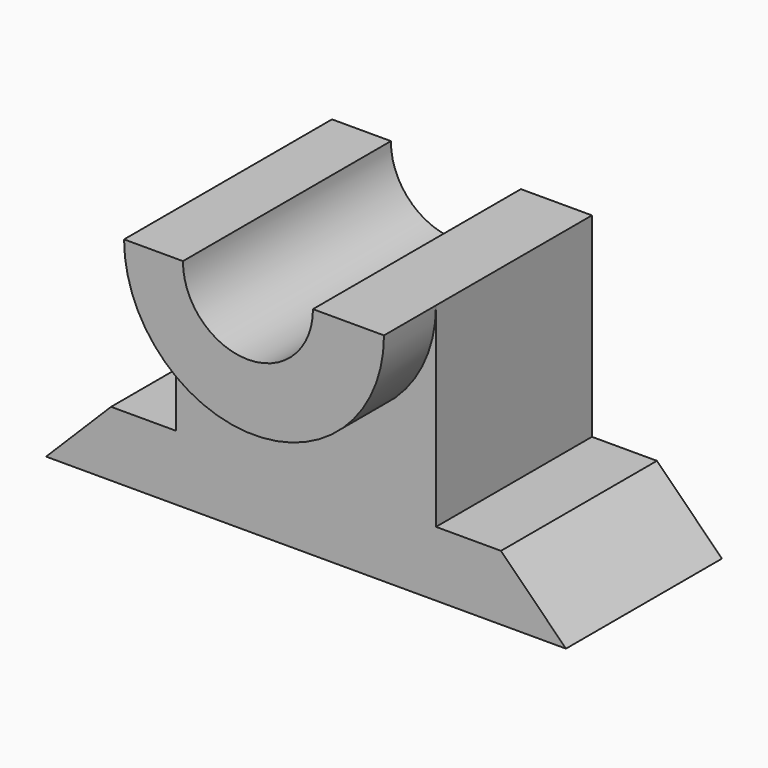
from build123d import *

# Parameters (mm, degrees)
F1_DEPTH = 30
F2_W     = 40
F2_H     = 30
F3_DEPTH = 30
F5_DEPTH = 10
F7_D     = 20


with BuildPart() as f1:
    # F0 (on Front) → F1 (new body)
    with BuildSketch(Plane.XZ):
        Polygon((-1036.953415, 10), (-1046.953415, 0), (-966.953415, 0), (-976.953415, 10), align=None)
    extrude(amount=-F1_DEPTH)

    # F2 (on face) → F3 (join)
    with BuildSketch(Plane.XZ):
        with Locations((-1006.953415, 25)):
            Rectangle(F2_W, F2_H)
    extrude(amount=-F3_DEPTH)

    # F4 (on face) → F5 (join)
    with BuildSketch(Plane.XZ):
        with BuildLine():
            Line((-986.953415, 40), (-1026.953415, 40))
            ThreePointArc((-1026.953415, 40), (-1006.953415, 20), (-986.953415, 40))
        make_face()
    extrude(amount=F5_DEPTH)

    # F7 (through all)
    with Locations(Plane.XZ.offset(10)):
        with Locations((-1007.889872, 39.913703)):
            Hole(F7_D / 2)


solid = f1.part
